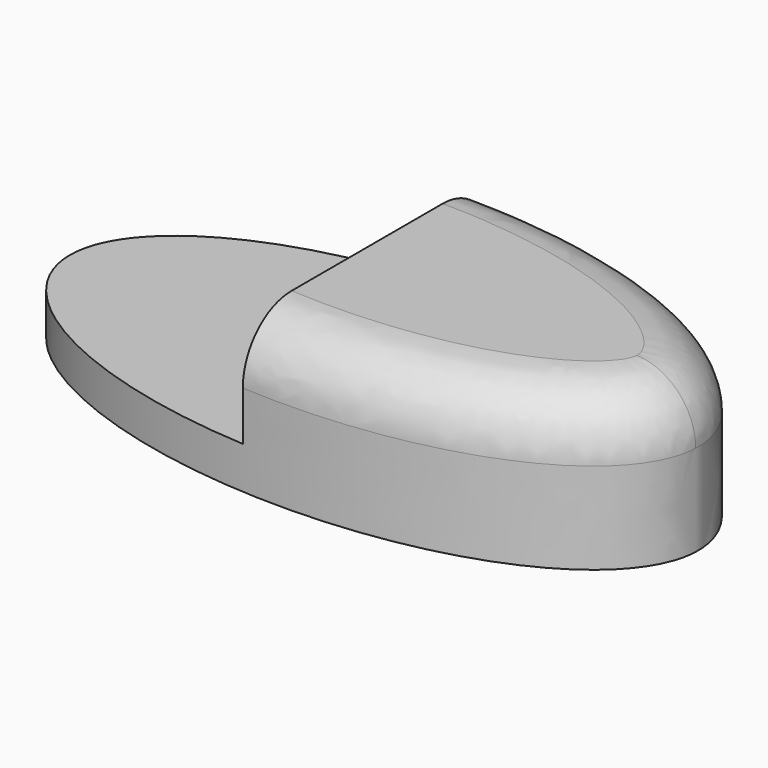
from build123d import *

# Parameters (mm, degrees)
F1_DEPTH = 63.5
F2_R     = 25.4
F3_W     = 227.307590656
F3_H     = 52.1239899099
F4_DEPTH = 88.9


with BuildPart() as f1:
    # F0 (on Top) → F1 (new body)
    with BuildSketch(Plane.XY):
        with BuildLine():
            add(Edge.make_bspline(
                [(134.4730108976, -5.5326349102), (139.0909223312, 106.7076384148), (-64.927549732, 58.8864541176), (-268.9460217953, 11.0652698204), (-69.5454611656, -53.3538192074), (129.8550994641, -117.7729082352), (134.4730108976, -5.5326349102)],
                knots=[0, 0, 0, 2.0943951024, 2.0943951024, 4.1887902048, 4.1887902048, 6.2831853072, 6.2831853072, 6.2831853072], degree=2, weights=[1, 0.5, 1, 0.5, 1, 0.5, 1]))
        make_face()
    extrude(amount=F1_DEPTH)

    # F2
    f2_edges = [f1.edges().sort_by_distance(p)[0] for p in [
        (-134.47301, 5.53266, 63.5),
    ]]
    fillet(f2_edges, radius=F2_R)

    # F3 (on Front) → F4 (cut, symmetric)
    with BuildSketch(Plane.XZ):
        with Locations((-120.8997056819, 43.6686147004)):
            Rectangle(F3_W, F3_H)
    extrude(amount=F4_DEPTH, both=True, mode=Mode.SUBTRACT)


solid = f1.part
